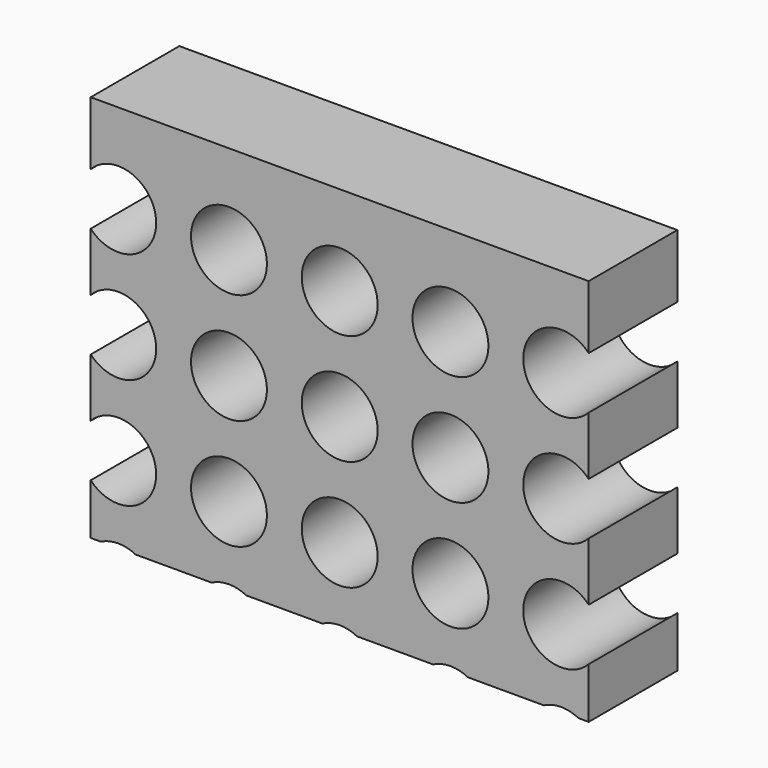
from build123d import *

# Parameters (mm, degrees)
F0_R     = 8.7067179479
F1_DEPTH = 25.4


with BuildPart() as f1:
    # F0 (on Front) → F1 (new body)
    with BuildSketch(Plane.XZ):
        with BuildLine():
            Line((57.1053996682, 29.9631231404), (57.1053996682, 44.4953776896))
            Line((57.1053996682, 44.4953776896), (31.7053996682, 44.4953776896))
            Line((31.7053996682, 44.4953776896), (31.7053996682, 29.9631231404))
            ThreePointArc((31.7053996682, 29.9631231404), (33.4841287064, 27.1922855677), (34.1067179479, 23.9590518177))
            ThreePointArc((34.1067179479, 23.9590518177), (33.4841287064, 20.7258180677), (31.7053996682, 17.9549804949))
            Line((31.7053996682, 17.9549804949), (31.7053996682, 4.5631231404))
            ThreePointArc((31.7053996682, 4.5631231404), (33.4841287064, 1.7922855677), (34.1067179479, -1.4409481823))
            ThreePointArc((34.1067179479, -1.4409481823), (33.4841287064, -4.6741819323), (31.7053996682, -7.4450195051))
            Line((31.7053996682, -7.4450195051), (31.7053996682, -20.8368768596))
            ThreePointArc((31.7053996682, -20.8368768596), (33.4841287064, -23.6077144323), (34.1067179479, -26.8409481823))
            ThreePointArc((34.1067179479, -26.8409481823), (33.4841287064, -30.0741819323), (31.7053996682, -32.8450195051))
            Line((31.7053996682, -32.8450195051), (31.7053996682, -44.4953776896))
            Line((31.7053996682, -44.4953776896), (46.8234342497, -44.4953776896))
            ThreePointArc((46.8234342497, -44.4953776896), (50.8, -43.5342302345), (54.7765657503, -44.4953776896))
            Line((54.7765657503, -44.4953776896), (57.1053996682, -44.4953776896))
            Line((57.1053996682, -44.4953776896), (57.1053996682, -32.8450195051))
            ThreePointArc((57.1053996682, -32.8450195051), (42.0932820521, -26.8409481823), (57.1053996682, -20.8368768596))
            Line((57.1053996682, -20.8368768596), (57.1053996682, -7.4450195051))
            ThreePointArc((57.1053996682, -7.4450195051), (42.0932820521, -1.4409481823), (57.1053996682, 4.5631231404))
            Line((57.1053996682, 4.5631231404), (57.1053996682, 17.9549804949))
            ThreePointArc((57.1053996682, 17.9549804949), (42.0932820521, 23.9590518177), (57.1053996682, 29.9631231404))
        make_face()
        with BuildLine():
            Line((31.7053996682, 29.9631231404), (31.7053996682, 44.4953776896))
            Line((31.7053996682, 44.4953776896), (6.3053996682, 44.4953776896))
            Line((6.3053996682, 44.4953776896), (6.3053996682, 29.9631231404))
            ThreePointArc((6.3053996682, 29.9631231404), (8.0841287064, 27.1922855677), (8.7067179479, 23.9590518177))
            ThreePointArc((8.7067179479, 23.9590518177), (8.0841287064, 20.7258180677), (6.3053996682, 17.9549804949))
            Line((6.3053996682, 17.9549804949), (6.3053996682, 4.5631231404))
            ThreePointArc((6.3053996682, 4.5631231404), (8.0841287064, 1.7922855677), (8.7067179479, -1.4409481823))
            ThreePointArc((8.7067179479, -1.4409481823), (8.0841287064, -4.6741819323), (6.3053996682, -7.4450195051))
            Line((6.3053996682, -7.4450195051), (6.3053996682, -20.8368768596))
            ThreePointArc((6.3053996682, -20.8368768596), (8.0841287064, -23.6077144323), (8.7067179479, -26.8409481823))
            ThreePointArc((8.7067179479, -26.8409481823), (8.0841287064, -30.0741819323), (6.3053996682, -32.8450195051))
            Line((6.3053996682, -32.8450195051), (6.3053996682, -44.4953776896))
            Line((6.3053996682, -44.4953776896), (21.4234342497, -44.4953776896))
            ThreePointArc((21.4234342497, -44.4953776896), (25.4, -43.5342302345), (29.3765657503, -44.4953776896))
            Line((29.3765657503, -44.4953776896), (31.7053996682, -44.4953776896))
            Line((31.7053996682, -44.4953776896), (31.7053996682, -32.8450195051))
            ThreePointArc((31.7053996682, -32.8450195051), (16.6932820521, -26.8409481823), (31.7053996682, -20.8368768596))
            Line((31.7053996682, -20.8368768596), (31.7053996682, -7.4450195051))
            ThreePointArc((31.7053996682, -7.4450195051), (16.6932820521, -1.4409481823), (31.7053996682, 4.5631231404))
            Line((31.7053996682, 4.5631231404), (31.7053996682, 17.9549804949))
            ThreePointArc((31.7053996682, 17.9549804949), (16.6932820521, 23.9590518177), (31.7053996682, 29.9631231404))
        make_face()
        with BuildLine():
            Line((6.3053996682, 29.9631231404), (6.3053996682, 44.4953776896))
            Line((6.3053996682, 44.4953776896), (-57.1053996682, 44.4953776896))
            Line((-57.1053996682, 44.4953776896), (-57.1053996682, 29.9631231404))
            ThreePointArc((-57.1053996682, 29.9631231404), (-47.56676625, 32.0431805241), (-42.0932820521, 23.9590518177))
            ThreePointArc((-42.0932820521, 23.9590518177), (-47.56676625, 15.8749231112), (-57.1053996682, 17.9549804949))
            Line((-57.1053996682, 17.9549804949), (-57.1053996682, 4.5631231404))
            ThreePointArc((-57.1053996682, 4.5631231404), (-47.56676625, 6.6431805241), (-42.0932820521, -1.4409481823))
            ThreePointArc((-42.0932820521, -1.4409481823), (-47.56676625, -9.5250768888), (-57.1053996682, -7.4450195051))
            Line((-57.1053996682, -7.4450195051), (-57.1053996682, -20.8368768596))
            ThreePointArc((-57.1053996682, -20.8368768596), (-47.56676625, -18.7568194759), (-42.0932820521, -26.8409481823))
            ThreePointArc((-42.0932820521, -26.8409481823), (-47.56676625, -34.9250768888), (-57.1053996682, -32.8450195051))
            Line((-57.1053996682, -32.8450195051), (-57.1053996682, -44.4953776896))
            Line((-57.1053996682, -44.4953776896), (-54.7765657503, -44.4953776896))
            ThreePointArc((-54.7765657503, -44.4953776896), (-50.8, -43.5342302345), (-46.8234342497, -44.4953776896))
            Line((-46.8234342497, -44.4953776896), (-29.3765657503, -44.4953776896))
            ThreePointArc((-29.3765657503, -44.4953776896), (-25.4, -43.5342302345), (-21.4234342497, -44.4953776896))
            Line((-21.4234342497, -44.4953776896), (-3.9765657503, -44.4953776896))
            ThreePointArc((-3.9765657503, -44.4953776896), (0, -43.5342302345), (3.9765657503, -44.4953776896))
            Line((3.9765657503, -44.4953776896), (6.3053996682, -44.4953776896))
            Line((6.3053996682, -44.4953776896), (6.3053996682, -32.8450195051))
            ThreePointArc((6.3053996682, -32.8450195051), (-8.7067179479, -26.8409481823), (6.3053996682, -20.8368768596))
            Line((6.3053996682, -20.8368768596), (6.3053996682, -7.4450195051))
            ThreePointArc((6.3053996682, -7.4450195051), (-8.7067179479, -1.4409481823), (6.3053996682, 4.5631231404))
            Line((6.3053996682, 4.5631231404), (6.3053996682, 17.9549804949))
            ThreePointArc((6.3053996682, 17.9549804949), (-8.7067179479, 23.9590518177), (6.3053996682, 29.9631231404))
        make_face()
        with Locations((-25.4, -26.8409481823)):
            Circle(F0_R, mode=Mode.SUBTRACT)
        with Locations((-25.4, -1.4409481823)):
            Circle(F0_R, mode=Mode.SUBTRACT)
        with Locations((-25.4, 23.9590518177)):
            Circle(F0_R, mode=Mode.SUBTRACT)
    extrude(amount=F1_DEPTH)


solid = f1.part
